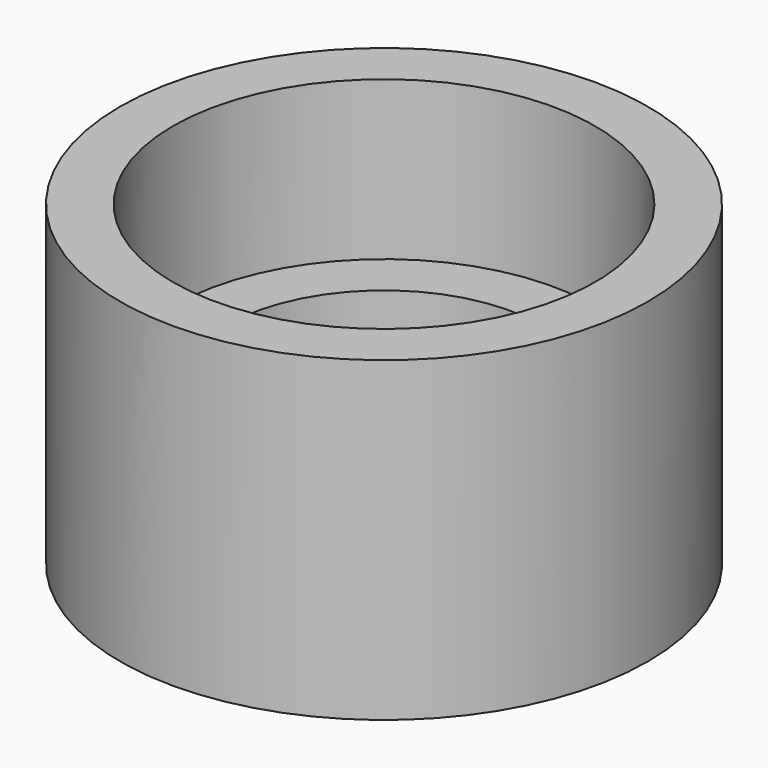
from build123d import *

# Parameters (mm, degrees)
F0_W = 5
F0_H = 15


with BuildPart() as f1:
    # F0 (on Front) → F1 (revolve)
    with BuildSketch(Plane.XZ):
        Polygon((-25, -15), (-15, -15), (-15, 0), (-20, 0), (-25, 0), align=None)
        with Locations((-22.5, 7.5)):
            Rectangle(F0_W, F0_H)
    revolve(axis=Axis((0, 0, -4.356846), (0, 0, -1)))


solid = f1.part
